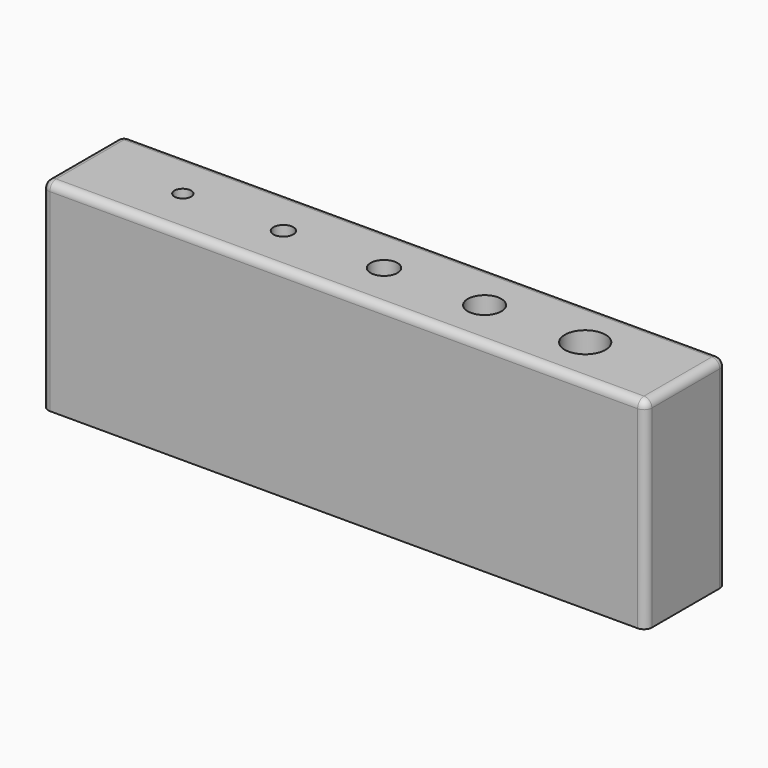
from build123d import *

# Parameters (mm, degrees)
F0_W     = 152.4
F0_H     = 25.4
F1_DEPTH = 50.8
F2_D     = 4.2
F2_DEPTH = 18
F2_TIP   = 1.2618073
F3_D     = 5
F3_DEPTH = 20
F3_TIP   = 1.5021515476
F4_D     = 6.8
F4_DEPTH = 25
F4_TIP   = 2.0429261047
F5_D     = 8.5
F5_DEPTH = 25
F5_TIP   = 2.5536576309
F6_D     = 10.3
F6_DEPTH = 40
F6_TIP   = 3.094432188
F7_R     = 2


with BuildPart() as f1:
    # F0 (on Top) → F1 (new body)
    with BuildSketch(Plane.XY):
        with Locations((22.0912756948, 0)):
            Rectangle(F0_W, F0_H)
    extrude(amount=-F1_DEPTH)

    # F2
    with Locations(Plane.XY):
        with Locations((-28.7087243052, 0)):
            Hole(F2_D / 2, depth=F2_DEPTH)
            with Locations((0, 0, -(F2_DEPTH + F2_TIP / 2))):  # 118° drill point
                Cone(0, F2_D / 2, F2_TIP, mode=Mode.SUBTRACT)

    # F3
    with Locations(Plane.XY):
        with Locations((-3.3087243052, 0)):
            Hole(F3_D / 2, depth=F3_DEPTH)
            with Locations((0, 0, -(F3_DEPTH + F3_TIP / 2))):  # 118° drill point
                Cone(0, F3_D / 2, F3_TIP, mode=Mode.SUBTRACT)

    # F4
    with Locations(Plane.XY):
        with Locations((22.0912756948, 0)):
            Hole(F4_D / 2, depth=F4_DEPTH)
            with Locations((0, 0, -(F4_DEPTH + F4_TIP / 2))):  # 118° drill point
                Cone(0, F4_D / 2, F4_TIP, mode=Mode.SUBTRACT)

    # F5
    with Locations(Plane.XY):
        with Locations((47.4912756948, 0)):
            Hole(F5_D / 2, depth=F5_DEPTH)
            with Locations((0, 0, -(F5_DEPTH + F5_TIP / 2))):  # 118° drill point
                Cone(0, F5_D / 2, F5_TIP, mode=Mode.SUBTRACT)

    # F6
    with Locations(Plane.XY):
        with Locations((72.8912756948, 0)):
            Hole(F6_D / 2, depth=F6_DEPTH)
            with Locations((0, 0, -(F6_DEPTH + F6_TIP / 2))):  # 118° drill point
                Cone(0, F6_D / 2, F6_TIP, mode=Mode.SUBTRACT)

    # F7
    f7_edges = [f1.edges().sort_by_distance(p)[0] for p in [
        (22.091276, -12.7, 0),
        (98.291276, 0, 0),
        (22.091276, 12.7, 0),
        (-54.108724, 0, 0),
        (98.291276, 12.7, -25.4),
        (98.291276, -12.7, -25.4),
        (-54.108724, 12.7, -25.4),
        (-54.108724, -12.7, -25.4),
    ]]
    fillet(f7_edges, radius=F7_R)


solid = f1.part
